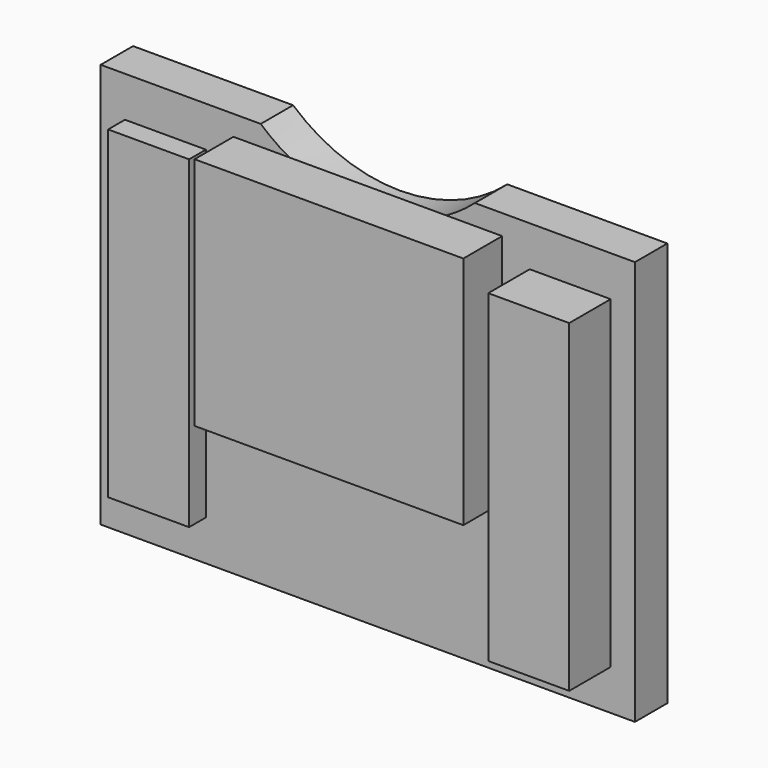
from build123d import *

# Parameters (mm, degrees)
F0_W      = 41.91
F0_H      = 31.75
F1_DEPTH  = 3.175
F4_DEPTH  = 3.176
F5_W      = 21.082
F5_H      = 18.415
F6_DEPTH  = 3.81
F7_W      = 6.35
F7_H      = 25.4
F8_DEPTH  = 4.064
F9_W      = 6.35
F9_H      = 25.4
F10_DEPTH = 1.651
F11_W     = 33.02
F11_H     = 22.86
F12_DEPTH = 1.27


with BuildPart() as f1:
    # F0 (on Front) → F1 (new body)
    with BuildSketch(Plane.XZ):
        Rectangle(F0_W, F0_H)
    extrude(amount=F1_DEPTH)

    # F3 (on face) → F4 (cut, through all)
    with BuildSketch(Plane.XZ.offset(3.175)):
        with BuildLine():
            ThreePointArc((-8.40026, 15.875), (0, 12.7), (8.40026, 15.875))
            Line((8.40026, 15.875), (-8.40026, 15.875))
        make_face()
    extrude(amount=-F4_DEPTH, mode=Mode.SUBTRACT)

    # F5 (on face) → F6 (join)
    with BuildSketch(Plane.XZ.offset(3.175)):
        with Locations((0, 5.08)):
            Rectangle(F5_W, F5_H)
    extrude(amount=F6_DEPTH)

    # F7 (on face) → F8 (join)
    with BuildSketch(Plane.XZ.offset(3.175)):
        with Locations((15.875, 0)):
            Rectangle(F7_W, F7_H)
    extrude(amount=F8_DEPTH)

    # F9 (on face) → F10 (join)
    with BuildSketch(Plane.XZ.offset(3.175)):
        with Locations((-15.875, 0)):
            Rectangle(F9_W, F9_H)
    extrude(amount=F10_DEPTH)

    # F11 (on face) → F12 (join)
    with BuildSketch(Plane(origin=(0, 0, 0), x_dir=(-1, 0, 0), z_dir=(0, 1, 0))):
        Rectangle(F11_W, F11_H)
    extrude(amount=F12_DEPTH)


solid = f1.part
